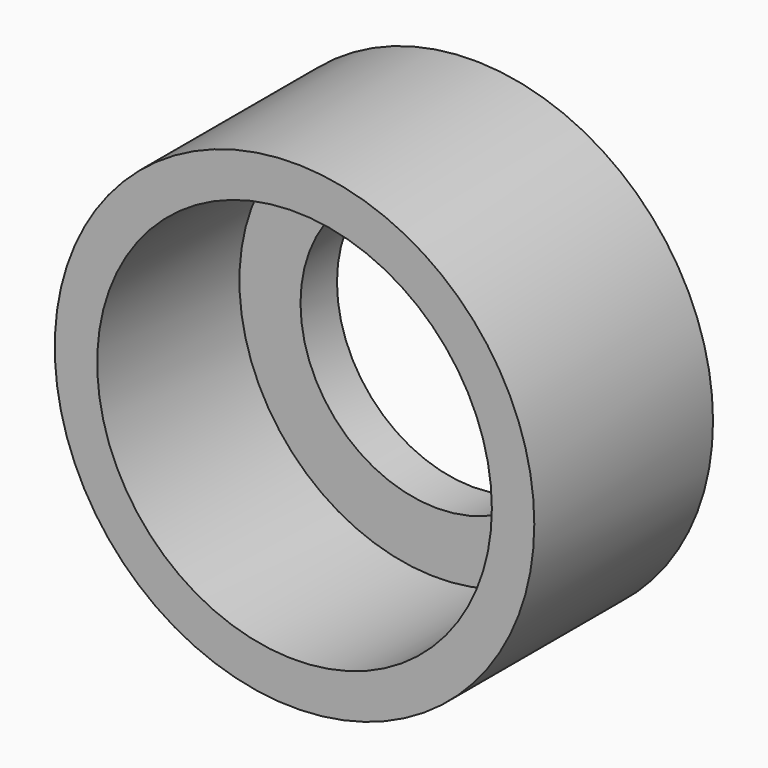
from build123d import *

# Parameters (mm, degrees)
F0_R          = 5.3435268043
F0_R_2        = 4.397766481
F1_DEPTH      = 4.9784
F2_R          = 4.6160122021
F3_DEPTH      = 1.016
F4_R          = 3.0366866858
F5_DEPTH      = 25.4
F5_DEPTH_BACK = 25.4


with BuildPart() as f1:
    # F0 (on Front) → F1 (new body)
    with BuildSketch(Plane.XZ):
        Circle(F0_R)
        Circle(F0_R_2, mode=Mode.SUBTRACT)
    extrude(amount=F1_DEPTH)

    # F2 (on Front) → F3 (join)
    with BuildSketch(Plane.XZ):
        Circle(F2_R)
    extrude(amount=F3_DEPTH)

    # F4 (on Front) → F5 (cut, two sides)
    with BuildSketch(Plane.XZ) as f5_sk:
        Circle(F4_R)
    extrude(amount=-F5_DEPTH, mode=Mode.SUBTRACT)
    extrude(f5_sk.sketch, amount=F5_DEPTH_BACK, mode=Mode.SUBTRACT)


solid = f1.part
